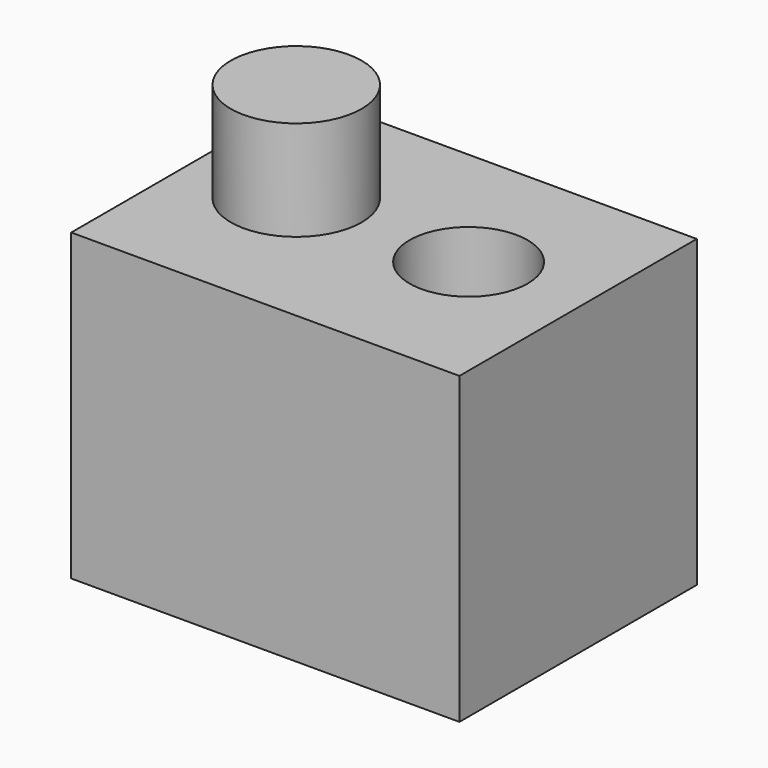
from build123d import *

# Parameters (mm, degrees)
F0_W     = 98.734826
F0_H     = 75.453311
F1_DEPTH = 77.475334
F2_R     = 14.996308
F3_DEPTH = 122.458426
F4_R     = 16.637872
F5_DEPTH = 25.4


with BuildPart() as f1:
    # F0 (on Top) → F1 (new body)
    with BuildSketch(Plane.XY):
        with Locations((6.044999, -1.713828)):
            Rectangle(F0_W, F0_H)
    extrude(amount=F1_DEPTH)

    # F2 (on face) → F3 (cut)
    with BuildSketch(Plane.XY.offset(77.475334)):
        with Locations((26.188662, 0)):
            Circle(F2_R)
    extrude(amount=-F3_DEPTH, mode=Mode.SUBTRACT)

    # F4 (on face) → F5 (join)
    with BuildSketch(Plane.XY.offset(77.475334)):
        with Locations((-17.651428, 0)):
            Circle(F4_R)
    extrude(amount=F5_DEPTH)


solid = f1.part
